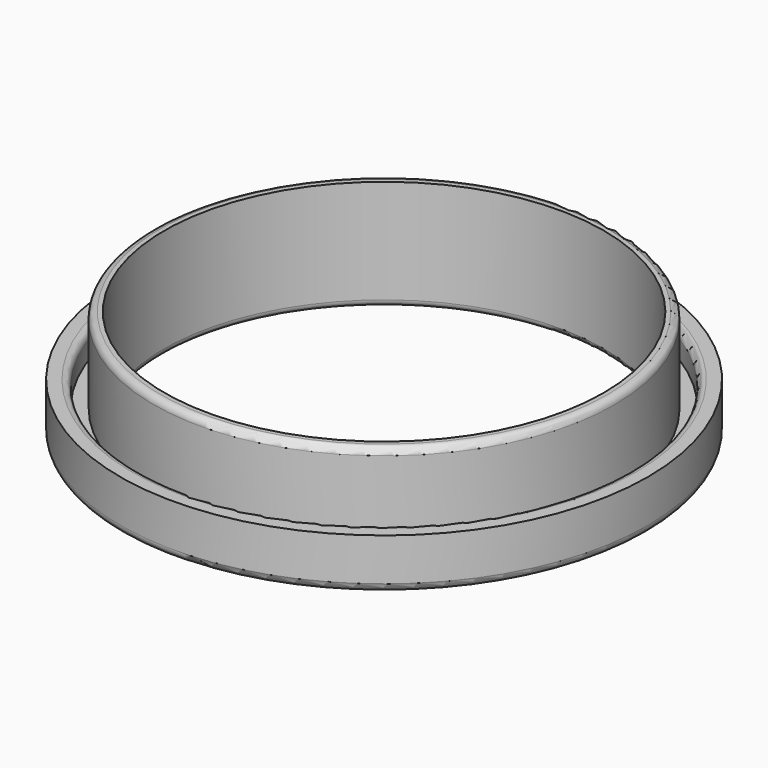
from build123d import *

# Parameters (mm, degrees)
F0_R     = 31
F0_R_2   = 28.75
F0_R_3   = 27.1
F0_R_4   = 25.8
F1_DEPTH = 3
F2_DEPTH = 10
F3_DEPTH = 3
F4_DEPTH = 25
F5_R     = 0.8
F6_R     = 1


with BuildPart() as f1:
    # F0 (on Top) → F1 (new body)
    with BuildSketch(Plane.XY):
        Circle(F0_R)
        Circle(F0_R_2, mode=Mode.SUBTRACT)
        Circle(F0_R_2)
        Circle(F0_R_3, mode=Mode.SUBTRACT)
        Circle(F0_R_3)
        Circle(F0_R_4, mode=Mode.SUBTRACT)
    extrude(amount=-F1_DEPTH)

    # F0 (on Top) → F2 (join)
    with BuildSketch(Plane.XY):
        Circle(F0_R_3)
        Circle(F0_R_4, mode=Mode.SUBTRACT)
    extrude(amount=F2_DEPTH)

    # F0 (on Top) → F3 (join)
    with BuildSketch(Plane.XY):
        Circle(F0_R)
        Circle(F0_R_2, mode=Mode.SUBTRACT)
    extrude(amount=F3_DEPTH)

    # F0 (on Top) → F4 (cut)
    with BuildSketch(Plane.XY):
        Circle(F0_R_4)
    extrude(amount=F4_DEPTH, mode=Mode.SUBTRACT)

    # F5
    f5_edges = [f1.edges().sort_by_distance(p)[0] for p in [
        (-25.8, 0, -3),
        (-28.75, 0, 3),
        (-27.1, 0, 10),
    ]]
    fillet(f5_edges, radius=F5_R)

    # F6
    f6_edges = [f1.edges().sort_by_distance(p)[0] for p in [
        (-31, 0, -3),
    ]]
    fillet(f6_edges, radius=F6_R)


solid = f1.part
